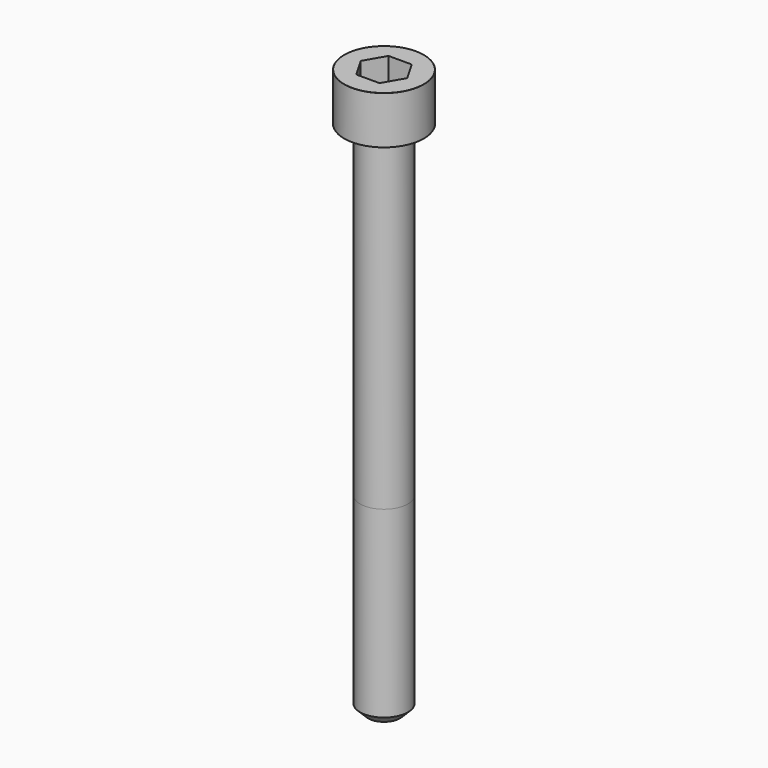
from build123d import *

# Parameters (mm, degrees)
POCKET_DEPTH = 5.06


with BuildPart() as part:
    # Sketch → Revolve (revolve)
    with BuildSketch(Plane.YZ):
        with BuildLine():
            Line((2.999, 0), (5, 0))
            Line((5, 0), (5, 5.97229))
            ThreePointArc((5, 5.97229), (4.991884, 5.991884), (4.97229, 6))
            Line((4.97229, 6), (0, 6))
            Line((0, -65), (0, 6))
            Line((2, -65), (0, -65))
            Line((3, -64), (2, -65))
            Line((3, -41), (3, -64))
            Line((2.999, 0), (3, -41))
        make_face()
    revolve(axis=Axis((0, 0, 0), (0, 0, 1)))

    # Sketch001 → Pocket (cut)
    with BuildSketch(Plane.XY.offset(6)):
        Polygon((2.921392, 0), (1.460696, 2.53), (-1.460696, 2.53), (-2.921392, 0), (-1.460696, -2.53), (1.460696, -2.53), align=None)
    extrude(amount=-POCKET_DEPTH, mode=Mode.SUBTRACT)


solid = part.part
